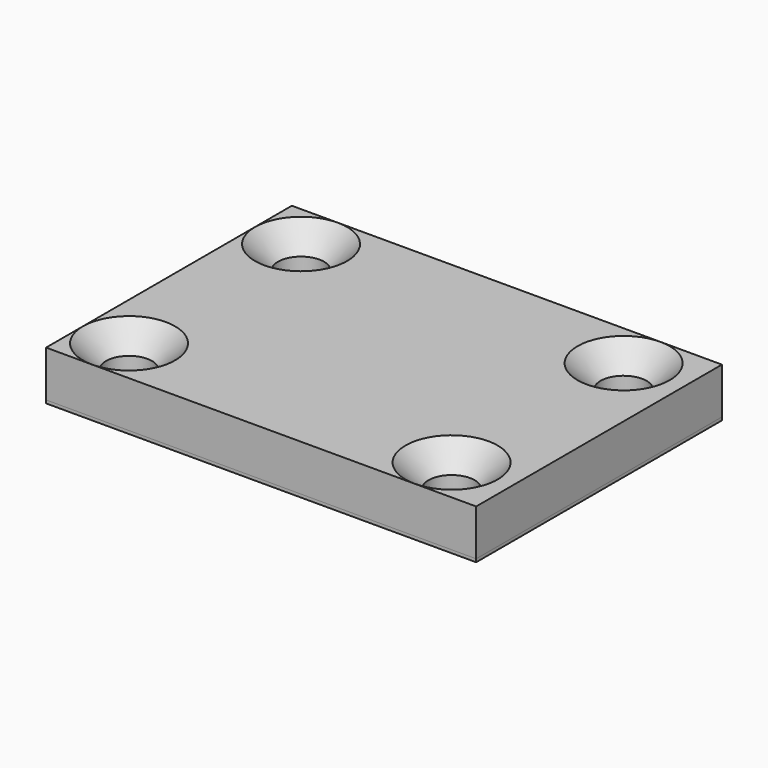
from build123d import *

# Parameters (mm, degrees)
F0_W           = 28
F0_H           = 10
F1_DEPTH       = 3
F2_D           = 3
F2_DEPTH       = 3
F2_CSINK_D     = 6
F2_CSINK_ANGLE = 90
F4_W           = 28
F4_H           = 20
F4_R           = 1.5
F5_DEPTH       = 0.2


with BuildPart() as f1:
    # F0 (on Top) → F1 (new body)
    with BuildSketch(Plane.XY):
        with Locations((0, 5)):
            Rectangle(F0_W, F0_H)
    extrude(amount=-F1_DEPTH)

    # F2
    with Locations(Plane.XY):
        with Locations((-11, 7), (10, 7)):
            CounterSinkHole(F2_D / 2, F2_CSINK_D / 2, depth=F2_DEPTH, counter_sink_angle=F2_CSINK_ANGLE)

    # F3: F1 across plane


with BuildPart() as f1_1:
    add(f1.part)
    add(f1.part.mirror(Plane.XZ))


with BuildPart() as f5:
    # F4 (on face) → F5 (new body)
    with BuildSketch(Plane(origin=(0, 0, -3), x_dir=(1, 0, 0), z_dir=(0, 0, -1))):
        Rectangle(F4_W, F4_H)
        with Locations((-11, -7)):
            Circle(F4_R, mode=Mode.SUBTRACT)
        with Locations((10, -7)):
            Circle(F4_R, mode=Mode.SUBTRACT)
        with Locations((-11, 7)):
            Circle(F4_R, mode=Mode.SUBTRACT)
        with Locations((10, 7)):
            Circle(F4_R, mode=Mode.SUBTRACT)
    extrude(amount=F5_DEPTH)


solid = Compound([f1_1.part, f5.part])
